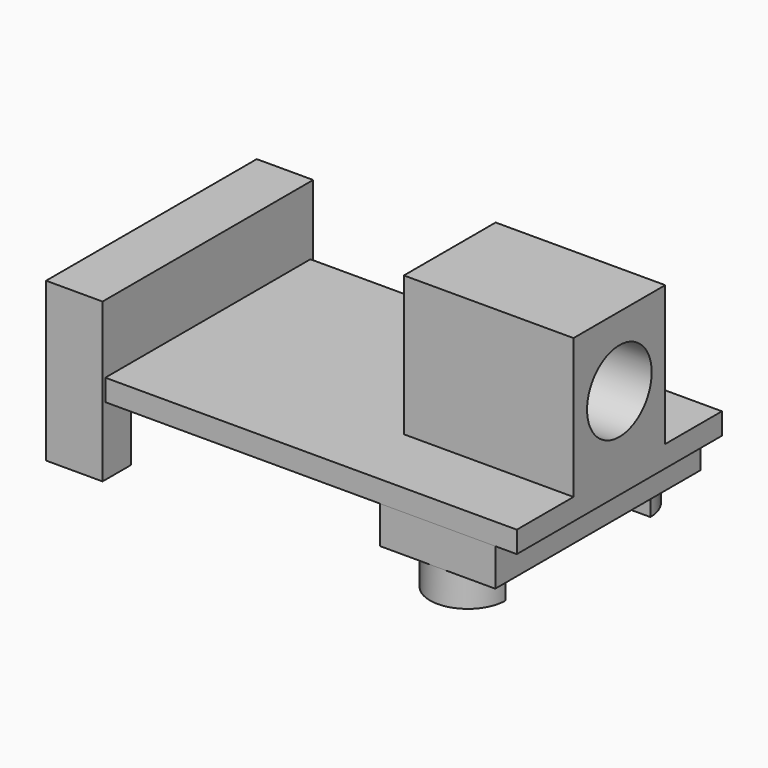
from build123d import *

# Parameters (mm, degrees)
F0_W      = 32.66
F0_H      = 20.35
F1_DEPTH  = 0.855
F2_W      = 20.9
F2_H      = 12.57
F3_DEPTH  = 4.48
F4_W      = 15.28
F4_H      = 5.72
F5_DEPTH  = 4.48
F6_W      = 9.15
F6_H      = 20.35
F7_DEPTH  = 2.97
F9_DEPTH  = 2.56
F10_W     = 9.1
F10_H     = 11.1
F11_DEPTH = 13.46
F12_R     = 3.205
F13_DEPTH = 11


with BuildPart() as f1:
    # F0 (on Top) → F1 (new body, symmetric)
    with BuildSketch(Plane.XY):
        Rectangle(F0_W, F0_H)
    extrude(amount=F1_DEPTH, both=True)

    # F10 (on face) → F11 (join)
    with BuildSketch(Plane.YZ.offset(16.33)):
        with Locations((0, 6.405)):
            Rectangle(F10_W, F10_H)
    extrude(amount=-F11_DEPTH)

    # F12 (on face) → F13 (cut)
    with BuildSketch(Plane.YZ.offset(16.33)):
        with Locations((0, 6.405)):
            Circle(F12_R)
    extrude(amount=-F13_DEPTH, mode=Mode.SUBTRACT)


with BuildPart() as f3:
    # F2 (on face) → F3 (new body)
    with BuildSketch(Plane(origin=(-16.33, 0, 0), x_dir=(0, -1, 0), z_dir=(-1, 0, 0))):
        Rectangle(F2_W, F2_H)
    extrude(amount=F3_DEPTH)

    # F4 (on face) → F5 (cut, through all)
    with BuildSketch(Plane(origin=(-20.81, 0, 0), x_dir=(0, -1, 0), z_dir=(-1, 0, 0))):
        with Locations((0, -3.425)):
            Rectangle(F4_W, F4_H)
    extrude(amount=-F5_DEPTH, mode=Mode.SUBTRACT)


with BuildPart() as f7:
    # F6 (on face) → F7 (new body)
    with BuildSketch(Plane(origin=(0, 0, -0.855), x_dir=(1, 0, 0), z_dir=(0, 0, -1))):
        with Locations((10.045, 0)):
            Rectangle(F6_W, F6_H)
    extrude(amount=F7_DEPTH)

    # F8 (on face) → F9 (join)
    with BuildSketch(Plane(origin=(0, 0, -3.825), x_dir=(1, 0, 0), z_dir=(0, 0, -1))):
        with BuildLine():
            Line((7.045, 7.175), (13.045, 7.175))
            ThreePointArc((13.045, 7.175), (10.045, 10.175), (7.045, 7.175))
        make_face()
        with BuildLine():
            ThreePointArc((7.045, -7.175), (10.045, -10.175), (13.045, -7.175))
            Line((13.045, -7.175), (7.045, -7.175))
        make_face()
    extrude(amount=F9_DEPTH)


solid = Compound([f1.part, f3.part, f7.part])
